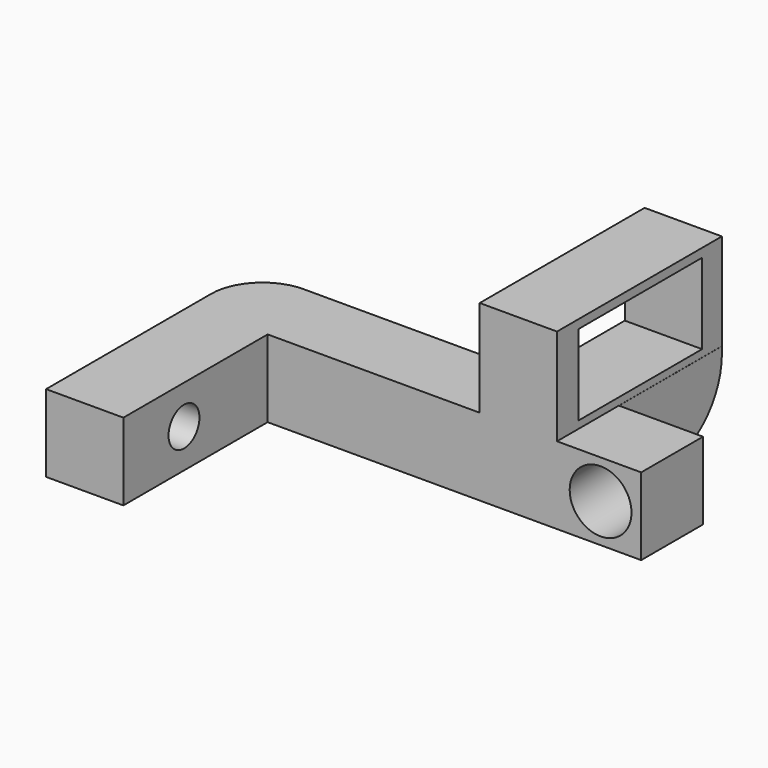
from build123d import *

# Parameters (mm, degrees)
PAD_DEPTH       = 12
SKETCH001_R     = 4.8
POCKET_DEPTH    = 13
SKETCH006_W     = 12
SKETCH006_H     = 32
PAD001_DEPTH    = 15
SKETCH007_W     = 24
SKETCH007_H     = 12.5
POCKET004_DEPTH = 13
SKETCH008_R     = 3
POCKET005_DEPTH = 13
SKETCH009_W     = 11.997705
SKETCH009_H     = 19.984946
PAD002_DEPTH    = 12
FILLET_R        = 11
FILLET001_R     = 8


with BuildPart() as part:
    # Sketch → Pad (new body)
    with BuildSketch(Plane.XY):
        Polygon((0, 0), (23.300841, 0), (23.300841, 12), (-46.699159, 12), (-46.699159, -28), (-34.699159, -28), (-34.699159, 0), align=None)
    extrude(amount=PAD_DEPTH)

    # Sketch001 (on Face3 of Pad) → Pocket (cut)
    with BuildSketch(Plane(origin=(0, 12, 0), x_dir=(-1, 0, 0), z_dir=(0, 1, 0))):
        with Locations((-17, 6)):
            Circle(SKETCH001_R)
    extrude(amount=-POCKET_DEPTH, mode=Mode.SUBTRACT)

    # Sketch006 → Pad001 (join)
    with BuildSketch(Plane.XY.offset(12)):
        with Locations((4.232911, 16)):
            Rectangle(SKETCH006_W, SKETCH006_H)
    extrude(amount=PAD001_DEPTH)

    # Sketch007 (on Face19 of Pad001) → Pocket004 (cut)
    with BuildSketch(Plane.YZ.offset(10.232911)):
        with Locations((16.158846, 19.395833)):
            Rectangle(SKETCH007_W, SKETCH007_H)
    extrude(amount=-POCKET004_DEPTH, mode=Mode.SUBTRACT)

    # Sketch008 (on Face5 of Pocket004) → Pocket005 (cut)
    with BuildSketch(Plane(origin=(-46.699159, 0, 0), x_dir=(0, -1, 0), z_dir=(-1, 0, 0))):
        with Locations((16.234238, 6)):
            Circle(SKETCH008_R)
    extrude(amount=-POCKET005_DEPTH, mode=Mode.SUBTRACT)

    # Sketch009 (on Face12 of Pocket005) → Pad002 (join)
    with BuildSketch(Plane(origin=(0, 0, 12), x_dir=(1, 0, 0), z_dir=(0, 0, -1))):
        with Locations((4.247853, -21.997832)):
            Rectangle(SKETCH009_W, SKETCH009_H)
    extrude(amount=PAD002_DEPTH)

    # Fillet
    fillet_edges = [part.edges().sort_by_distance(p)[0] for p in [
        (4.247853, 31.990305, 0),
    ]]
    fillet(fillet_edges, radius=FILLET_R)

    # Fillet001
    fillet001_edges = [part.edges().sort_by_distance(p)[0] for p in [
        (-46.699159, 12, 6),
    ]]
    fillet(fillet001_edges, radius=FILLET001_R)


solid = part.part
